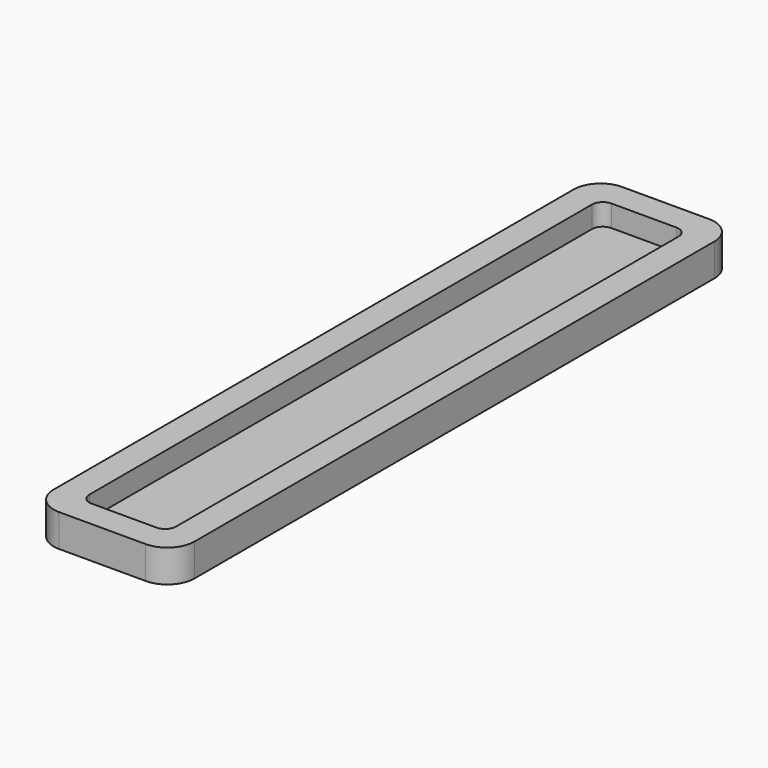
from build123d import *

# Parameters (mm, degrees)
F0_W     = 26
F0_H     = 130
F1_DEPTH = 6
F2_W     = 16
F2_H     = 120
F3_DEPTH = 4
F4_R     = 2
F5_R     = 5


with BuildPart() as f1:
    # F0 (on Top) → F1 (new body)
    with BuildSketch(Plane.XY):
        Rectangle(F0_W, F0_H)
    extrude(amount=F1_DEPTH)

    # F2 (on face) → F3 (cut)
    with BuildSketch(Plane.XY.offset(6)):
        Rectangle(F2_W, F2_H)
    extrude(amount=-F3_DEPTH, mode=Mode.SUBTRACT)

    # F4
    f4_edges = [f1.edges().sort_by_distance(p)[0] for p in [
        (-8, 60, 4),
        (-8, -60, 4),
        (8, -60, 4),
        (8, 60, 4),
    ]]
    fillet(f4_edges, radius=F4_R)

    # F5
    f5_edges = [f1.edges().sort_by_distance(p)[0] for p in [
        (-13, -65, 3),
        (13, -65, 3),
        (13, 65, 3),
        (-13, 65, 3),
    ]]
    fillet(f5_edges, radius=F5_R)


solid = f1.part
